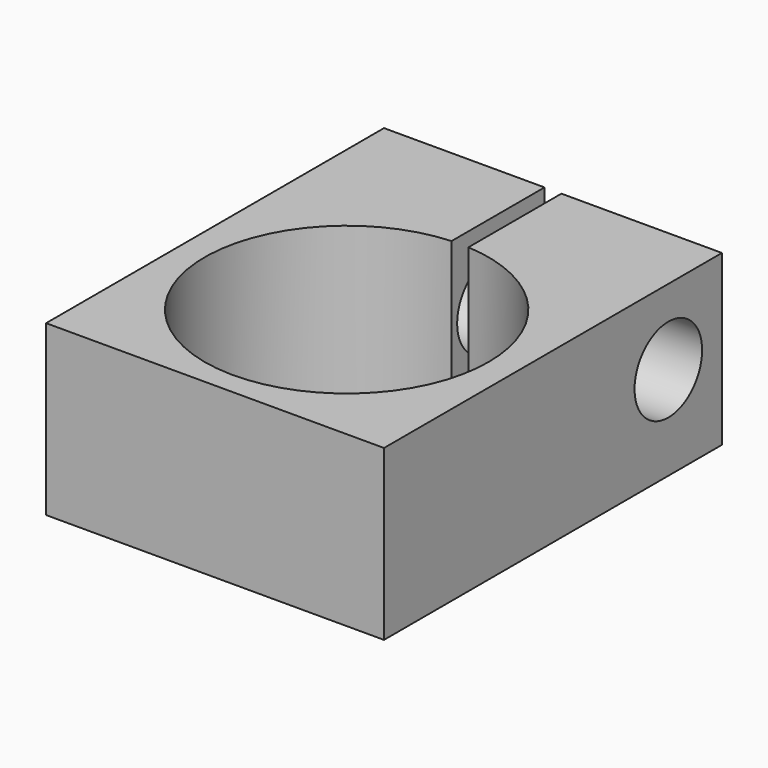
from build123d import *

# Parameters (mm, degrees)
F0_W     = 20
F0_H     = 25
F0_R     = 8.4
F1_DEPTH = 10
F2_W     = 1
F2_H     = 6.8792646822
F3_DEPTH = 10
F4_R     = 2.5
F5_DEPTH = 20


with BuildPart() as f1:
    # F0 (on Top) → F1 (new body)
    with BuildSketch(Plane.XY):
        Rectangle(F0_W, F0_H)
        with Locations((0, -2.7643705253)):
            Circle(F0_R, mode=Mode.SUBTRACT)
    extrude(amount=F1_DEPTH)

    # F2 (on face) → F3 (cut)
    with BuildSketch(Plane.XY.offset(10)):
        with Locations((0, 9.0603676589)):
            Rectangle(F2_W, F2_H)
    extrude(amount=-F3_DEPTH, mode=Mode.SUBTRACT)

    # F4 (on face) → F5 (cut)
    with BuildSketch(Plane(origin=(-10, 0, 0), x_dir=(0, -1, 0), z_dir=(-1, 0, 0))):
        with Locations((-8.5356631532, 5.5329478068)):
            Circle(F4_R)
    extrude(amount=-F5_DEPTH, mode=Mode.SUBTRACT)


solid = f1.part
